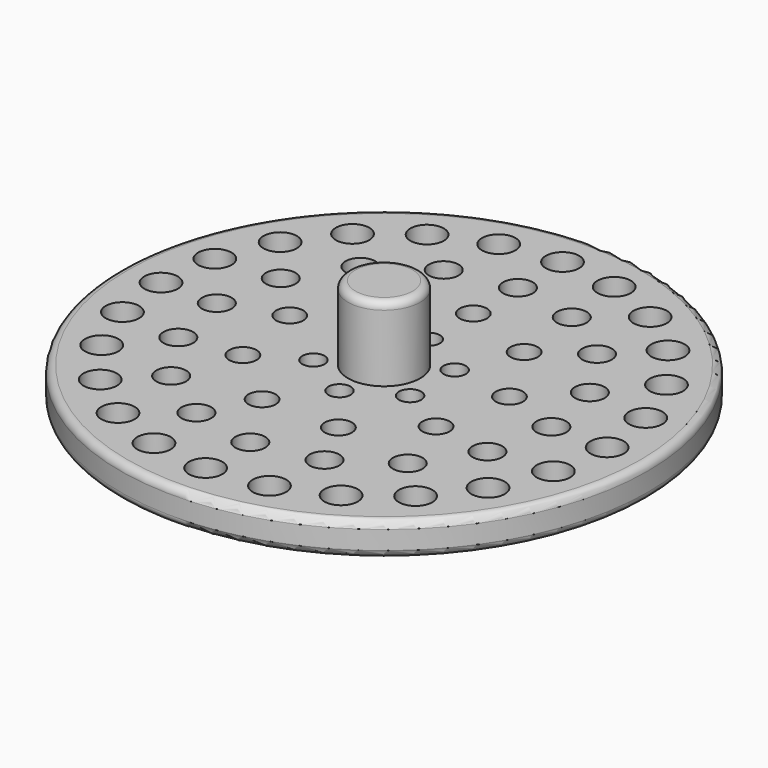
from build123d import *

# Parameters (mm, degrees)
F4_R      = 2.25
F5_DEPTH  = 5
F3_R      = 2
F6_DEPTH  = 5
F2_R      = 1.830021
F7_DEPTH  = 5
F1_R      = 1.5
F8_DEPTH  = 5
F0_R      = 35.5
F9_DEPTH  = 4.5
F11_R     = 1
F12_R     = 4.85
F13_DEPTH = 10
F14_R     = 1


with BuildPart() as f5:
    # F4 (on face) → F5 (new body)
    with BuildSketch(Plane.XY):
        with Locations((0, 30)):
            Circle(F4_R)
        with Locations((-7.764571, 28.977775)):
            Circle(F4_R)
        with Locations((-15, 25.980762)):
            Circle(F4_R)
        with Locations((-21.213203, 21.213203)):
            Circle(F4_R)
        with Locations((-25.980762, 15)):
            Circle(F4_R)
        with Locations((-28.977775, 7.764571)):
            Circle(F4_R)
        with Locations((-30, 0)):
            Circle(F4_R)
        with Locations((-28.977775, -7.764571)):
            Circle(F4_R)
        with Locations((-25.980762, -15)):
            Circle(F4_R)
        with Locations((-21.213203, -21.213203)):
            Circle(F4_R)
        with Locations((-15, -25.980762)):
            Circle(F4_R)
        with Locations((-7.764571, -28.977775)):
            Circle(F4_R)
        with Locations((0, -30)):
            Circle(F4_R)
        with Locations((7.764571, -28.977775)):
            Circle(F4_R)
        with Locations((15, -25.980762)):
            Circle(F4_R)
        with Locations((21.213203, -21.213203)):
            Circle(F4_R)
        with Locations((25.980762, -15)):
            Circle(F4_R)
        with Locations((28.977775, -7.764571)):
            Circle(F4_R)
        with Locations((30, 0)):
            Circle(F4_R)
        with Locations((28.977775, 7.764571)):
            Circle(F4_R)
        with Locations((25.980762, 15)):
            Circle(F4_R)
        with Locations((21.213203, 21.213203)):
            Circle(F4_R)
        with Locations((15, 25.980762)):
            Circle(F4_R)
        with Locations((7.764571, 28.977775)):
            Circle(F4_R)
    extrude(amount=F5_DEPTH)


with BuildPart() as f6:
    # F3 (on face) → F6 (new body)
    with BuildSketch(Plane.XY):
        with Locations((0, 22.5)):
            Circle(F3_R)
        with Locations((-8.610377, 20.787289)):
            Circle(F3_R)
        with Locations((-15.909903, 15.909903)):
            Circle(F3_R)
        with Locations((-20.787289, 8.610377)):
            Circle(F3_R)
        with Locations((-22.5, 0)):
            Circle(F3_R)
        with Locations((-20.787289, -8.610377)):
            Circle(F3_R)
        with Locations((-15.909903, -15.909903)):
            Circle(F3_R)
        with Locations((-8.610377, -20.787289)):
            Circle(F3_R)
        with Locations((0, -22.5)):
            Circle(F3_R)
        with Locations((8.610377, -20.787289)):
            Circle(F3_R)
        with Locations((15.909903, -15.909903)):
            Circle(F3_R)
        with Locations((20.787289, -8.610377)):
            Circle(F3_R)
        with Locations((22.5, 0)):
            Circle(F3_R)
        with Locations((20.787289, 8.610377)):
            Circle(F3_R)
        with Locations((15.909903, 15.909903)):
            Circle(F3_R)
        with Locations((8.610377, 20.787289)):
            Circle(F3_R)
    extrude(amount=F6_DEPTH)


with BuildPart() as f7:
    # F2 (on face) → F7 (new body)
    with BuildSketch(Plane.XY):
        with Locations((0, 15)):
            Circle(F2_R)
        with Locations((-9.641814, 11.490667)):
            Circle(F2_R)
        with Locations((-14.772116, 2.604723)):
            Circle(F2_R)
        with Locations((-12.990381, -7.5)):
            Circle(F2_R)
        with Locations((-5.130302, -14.095389)):
            Circle(F2_R)
        with Locations((5.130302, -14.095389)):
            Circle(F2_R)
        with Locations((12.990381, -7.5)):
            Circle(F2_R)
        with Locations((14.772116, 2.604723)):
            Circle(F2_R)
        with Locations((9.641814, 11.490667)):
            Circle(F2_R)
    extrude(amount=F7_DEPTH)


with BuildPart() as f8:
    # F1 (on face) → F8 (new body)
    with BuildSketch(Plane.XY):
        with Locations((0, 7.5)):
            Circle(F1_R)
        with Locations((-6.495191, 3.75)):
            Circle(F1_R)
        with Locations((-6.495191, -3.75)):
            Circle(F1_R)
        with Locations((0, -7.5)):
            Circle(F1_R)
        with Locations((6.495191, -3.75)):
            Circle(F1_R)
        with Locations((6.495191, 3.75)):
            Circle(F1_R)
    extrude(amount=F8_DEPTH)


with BuildPart() as f9:
    # F0 (on Top) → F9 (new body)
    with BuildSketch(Plane.XY):
        Circle(F0_R)
    extrude(amount=F9_DEPTH)

    # F10: cut F5, F6, F7, F8
    add(f5.part, mode=Mode.SUBTRACT)
    add(f6.part, mode=Mode.SUBTRACT)
    add(f7.part, mode=Mode.SUBTRACT)
    add(f8.part, mode=Mode.SUBTRACT)

    # F11
    f11_edges = [f9.edges().sort_by_distance(p)[0] for p in [
        (-35.5, 0, 0),
        (-35.5, 0, 4.5),
    ]]
    fillet(f11_edges, radius=F11_R)

    # F12 (on face) → F13 (join)
    with BuildSketch(Plane.XY.offset(4.5)):
        Circle(F12_R)
    extrude(amount=F13_DEPTH)

    # F14
    f14_edges = [f9.edges().sort_by_distance(p)[0] for p in [
        (-4.85, 0, 14.5),
    ]]
    fillet(f14_edges, radius=F14_R)


solid = f9.part
